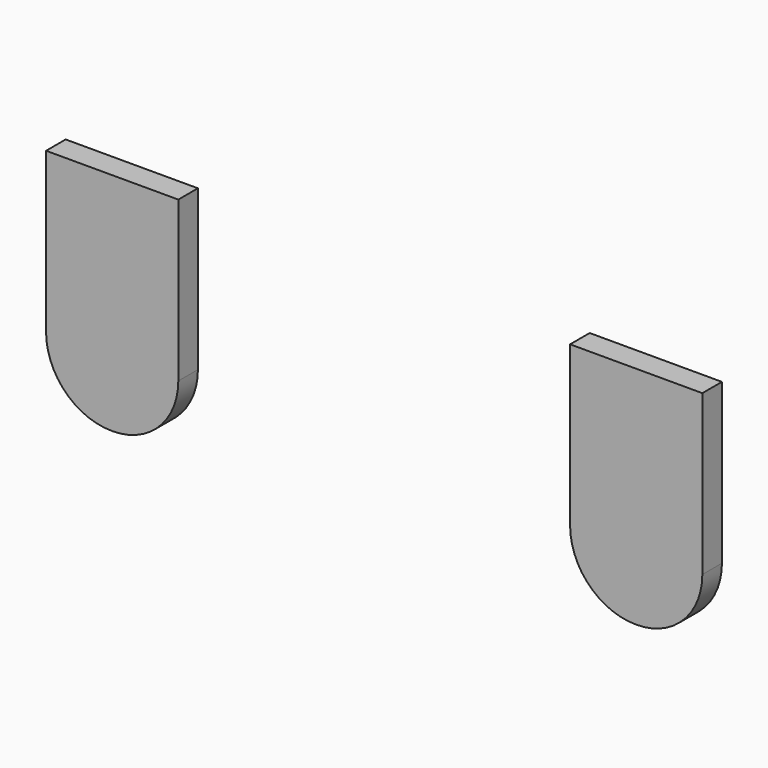
from build123d import *

# Parameters (mm, degrees)
SKETCH028_W      = 2.7
SKETCH028_H      = 0.5
PAD082_DEPTH     = 4.6
FILLET006_R      = 1.34
ARRAY009_X_COUNT = 2
ARRAY009_X_PITCH = 10.7


with BuildPart() as part:
    # Sketch028 → Pad082 (new body)
    with BuildSketch(Plane(origin=(-5.35, 4.45, -35.3), x_dir=(-1, 0, 0), z_dir=(0, 0, -1))):
        Rectangle(SKETCH028_W, SKETCH028_H)
    extrude(amount=PAD082_DEPTH)

    # Fillet006
    fillet006_edges = [part.edges().sort_by_distance(p)[0] for p in [
        (-6.7, 4.45, -39.9),
        (-4, 4.45, -39.9),
    ]]
    fillet(fillet006_edges, radius=FILLET006_R)

    # Array009 X: part ×2


with BuildPart() as part_1:
    add(part.part)
    with Locations(*[(i * ARRAY009_X_PITCH, 0, 0) for i in range(1, ARRAY009_X_COUNT)]):
        add(part.part)


solid = part_1.part
